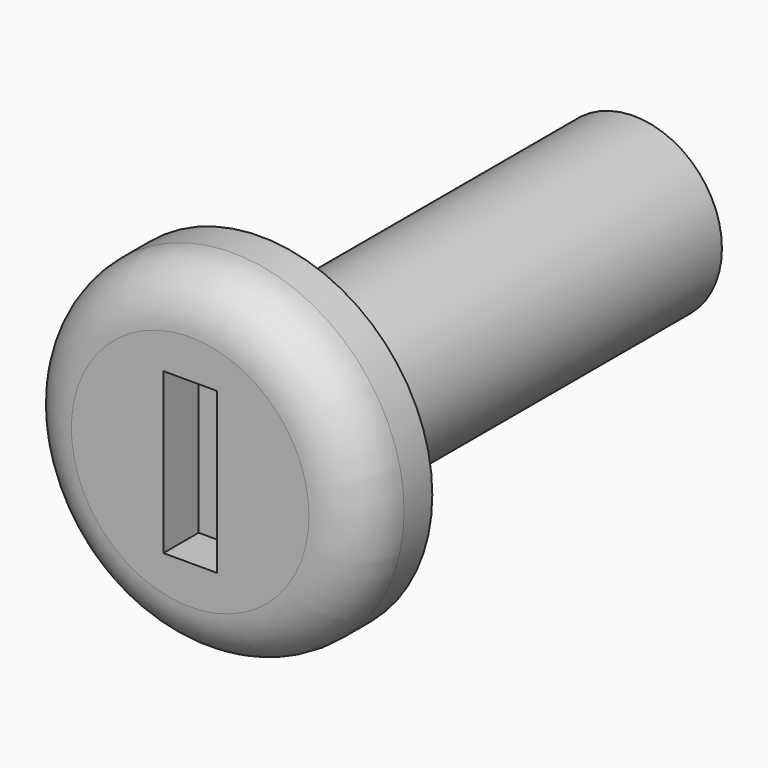
from build123d import *

# Parameters (mm, degrees)
F0_R     = 1
F1_DEPTH = 5.3
F3_R     = 1.95
F4_DEPTH = 1
F6_W     = 0.61
F6_H     = 1.82
F7_DEPTH = 0.5
F8_R     = 0.6


with BuildPart() as f1:
    # F0 (on Front) → F1 (new body)
    with BuildSketch(Plane.XZ):
        Circle(F0_R)
    extrude(amount=F1_DEPTH)

    # F3 (on offset) → F4 (join)
    with BuildSketch(Plane.XZ.offset(5.3)):
        Circle(F3_R)
    extrude(amount=F4_DEPTH)

    # F6 (on offset) → F7 (cut)
    with BuildSketch(Plane.XZ.offset(6.3)):
        Rectangle(F6_W, F6_H)
    extrude(amount=-F7_DEPTH, mode=Mode.SUBTRACT)

    # F8
    f8_edges = [f1.edges().sort_by_distance(p)[0] for p in [
        (-1.95, -6.3, 0),
    ]]
    fillet(f8_edges, radius=F8_R)


solid = f1.part
